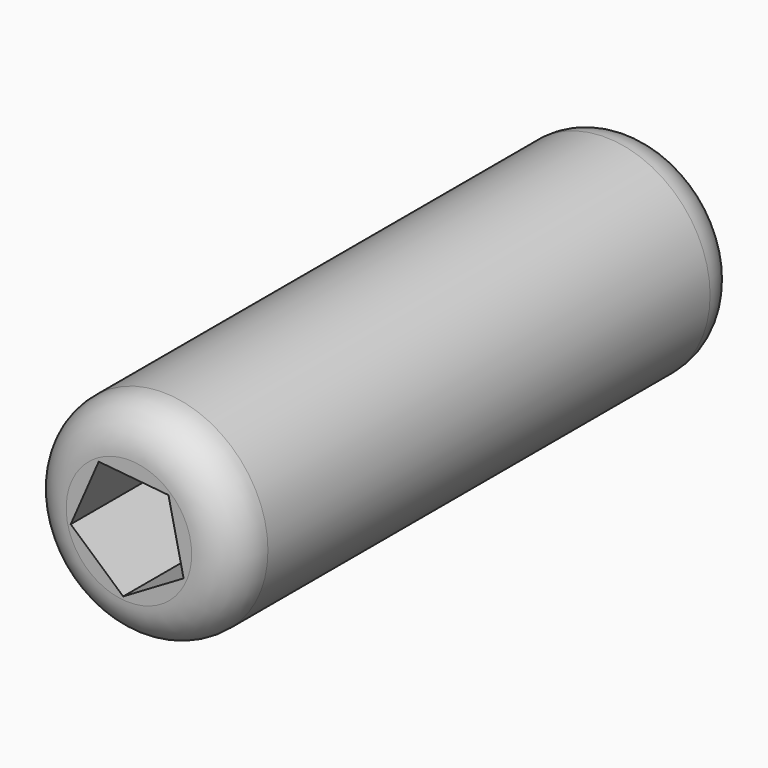
from build123d import *

# Parameters (mm, degrees)
F0_R     = 12.400865
F1_DEPTH = 75.2
F2_R     = 5
F4_DEPTH = 95


with BuildPart() as f1:
    # F0 (on Front) → F1 (new body)
    with BuildSketch(Plane.XZ):
        Circle(F0_R)
    extrude(amount=F1_DEPTH)

    # F2
    f2_edges = [f1.edges().sort_by_distance(p)[0] for p in [
        (-12.400865, -75.2, 0),
        (12.400865, -37.6, 0),
        (-12.400865, 0, 0),
    ]]
    fillet(f2_edges, radius=F2_R)

    # F3 (on Front) → F4 (cut)
    with BuildSketch(Plane.XZ):
        Polygon((-0.678238, -6.999642), (6.447468, -2.808051), (4.662992, 5.264171), (-3.56558, 6.061488), (-6.866642, -1.517966), align=None)
    extrude(amount=F4_DEPTH, mode=Mode.SUBTRACT)


solid = f1.part
